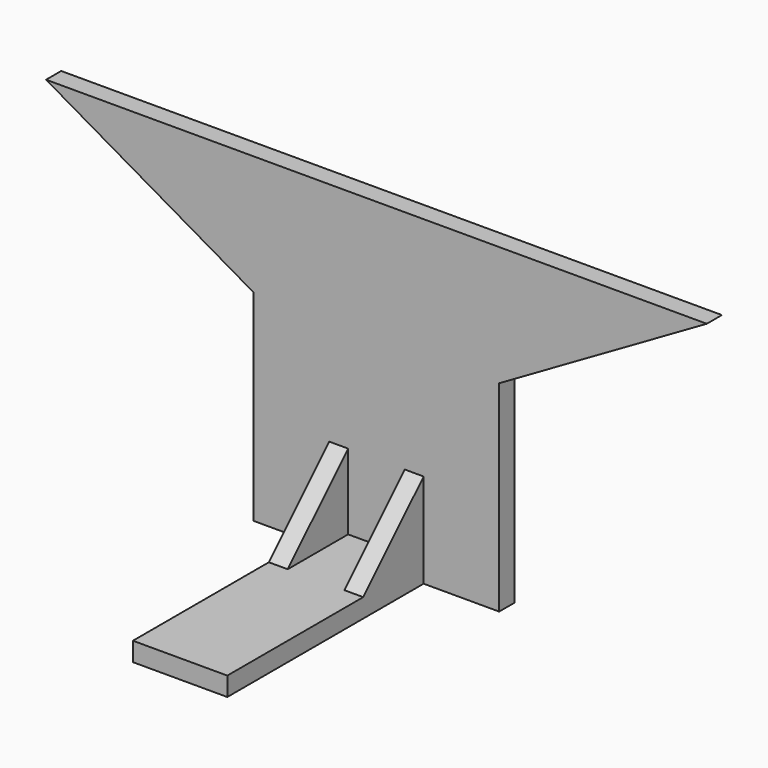
from build123d import *

# Parameters (mm, degrees)
F1_DEPTH = 6.35
F3_W     = 31.75
F3_H     = 6.35
F4_DEPTH = 82.55
F6_DEPTH = 6.35


with BuildPart() as f1:
    # F0 (on Front) → F1 (new body)
    with BuildSketch(Plane.XZ):
        Polygon((-41.275, 13.647084), (-41.275, 53.975), (-111.125, 53.975), align=None)
        Polygon((0, 53.975), (-41.275, 53.975), (-41.275, 13.647084), (-41.275, -53.975), (0, -53.975), align=None)
    extrude(amount=-F1_DEPTH)

    # F2: F1 across plane


with BuildPart() as f1_1:
    add(f1.part)
    add(f1.part.mirror(Plane.YZ))

    # F3 (on Front) → F4 (join)
    with BuildSketch(Plane.XZ):
        with Locations((0, -50.8)):
            Rectangle(F3_W, F3_H)
    extrude(amount=F4_DEPTH)

    # F5 (on face) → F6 (join)
    with BuildSketch(Plane.YZ.offset(15.875)):
        Polygon((0, -22.225), (-25.4, -47.625), (0, -47.625), align=None)
    extrude(amount=-F6_DEPTH)

    # F7: F1 across plane


with BuildPart() as f1_2:
    add(f1_1.part)
    add(f1_1.part.mirror(Plane.YZ))


solid = f1_2.part
